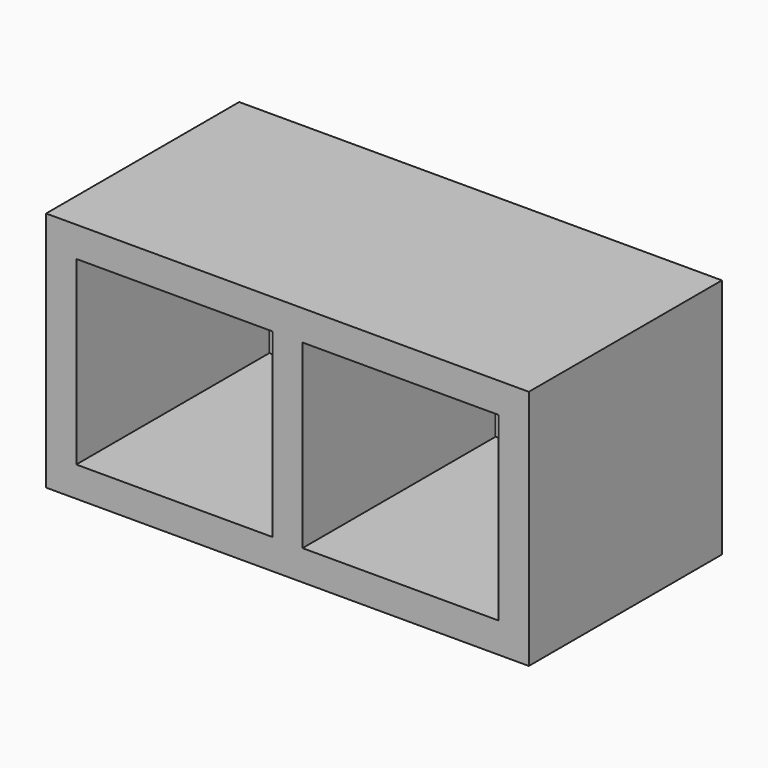
from build123d import *

# Parameters (mm, degrees)
F0_W     = 406.4
F0_H     = 203.2
F1_DEPTH = 203.2
F2_W     = 165.1
F2_H     = 152.4
F3_DEPTH = 203.201
F4_DEPTH = 203.201


with BuildPart() as f1:
    # F0 (on Top) → F1 (new body)
    with BuildSketch(Plane.XY):
        with Locations((203.2, 101.6)):
            Rectangle(F0_W, F0_H)
    extrude(amount=F1_DEPTH)

    # F2 (on face) → F3 (cut, through all)
    with BuildSketch(Plane.XZ):
        with Locations((107.95, 101.6)):
            Rectangle(F2_W, F2_H)
        with Locations((298.45, 101.6)):
            Rectangle(F2_W, F2_H)
    extrude(amount=-F3_DEPTH, mode=Mode.SUBTRACT)

    # F2 (on face) → F4 (cut, through all)
    with BuildSketch(Plane.XZ):
        with Locations((107.95, 101.6)):
            Rectangle(F2_W, F2_H)
        with Locations((298.45, 101.6)):
            Rectangle(F2_W, F2_H)
    extrude(amount=-F4_DEPTH, mode=Mode.SUBTRACT)


solid = f1.part
